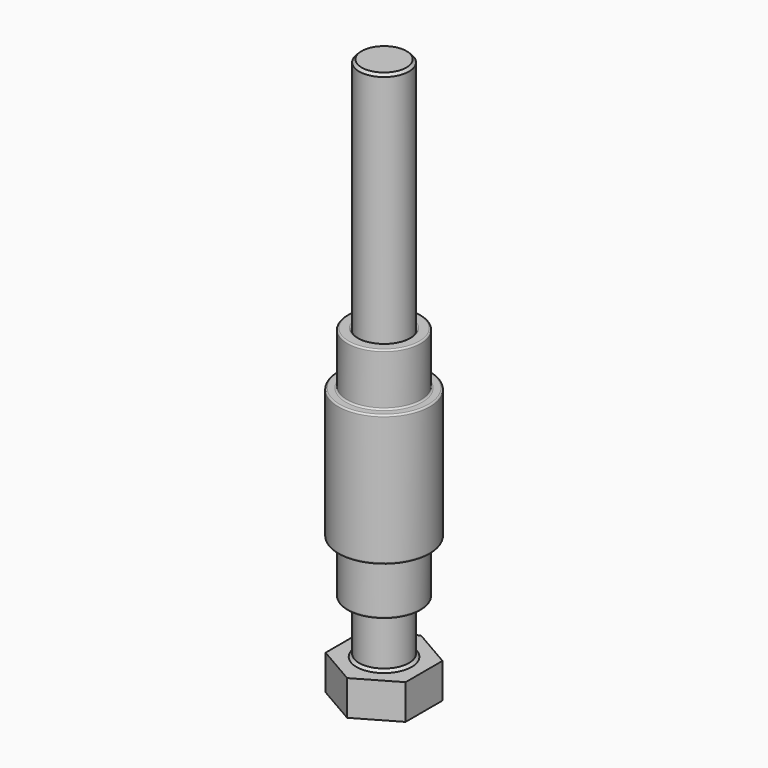
from build123d import *

# Parameters (mm, degrees)
F0_R     = 4.75
F1_DEPTH = 100
F3_DEPTH = 6.65
F4_SIZE  = 0.5
F7_R     = 0.3


with BuildPart() as f1:
    # F0 (on Top) → F1 (new body)
    with BuildSketch(Plane.XY):
        Circle(F0_R)
    extrude(amount=F1_DEPTH)

    # F2 (on face) → F3 (join)
    with BuildSketch(Plane(origin=(0, 0, 0), x_dir=(1, 0, 0), z_dir=(0, 0, -1))):
        Polygon((7.6, -4.387862), (7.6, 4.387862), (0, 8.775724), (-7.6, 4.387862), (-7.6, -4.387862), (0, -8.775724), align=None)
    extrude(amount=F3_DEPTH)

    # F4
    f4_edges = [f1.edges().sort_by_distance(p)[0] for p in [
        (-4.75, 0, 100),
        (-4.75, 0, 0),
    ]]
    chamfer(f4_edges, length=F4_SIZE)


with BuildPart() as f6:
    # F5 (on Front) → F6 (revolve)
    with BuildSketch(Plane.XZ):
        Polygon((7, 55), (4.85, 55), (4.85, 10), (7, 10), (7, 20), (8.75, 20), (8.75, 45), (7, 45), align=None)
    revolve(axis=Axis((0, 0, 20.679142), (0, 0, 1)))

    # F7
    f7_edges = [f6.edges().sort_by_distance(p)[0] for p in [
        (-7, 0, 10),
        (-7, 0, 20),
        (-8.75, 0, 20),
        (-8.75, 0, 45),
        (-7, 0, 45),
        (-7, 0, 55),
        (-4.85, 0, 55),
        (-4.85, 0, 10),
    ]]
    fillet(f7_edges, radius=F7_R)


solid = Compound([f1.part, f6.part])
